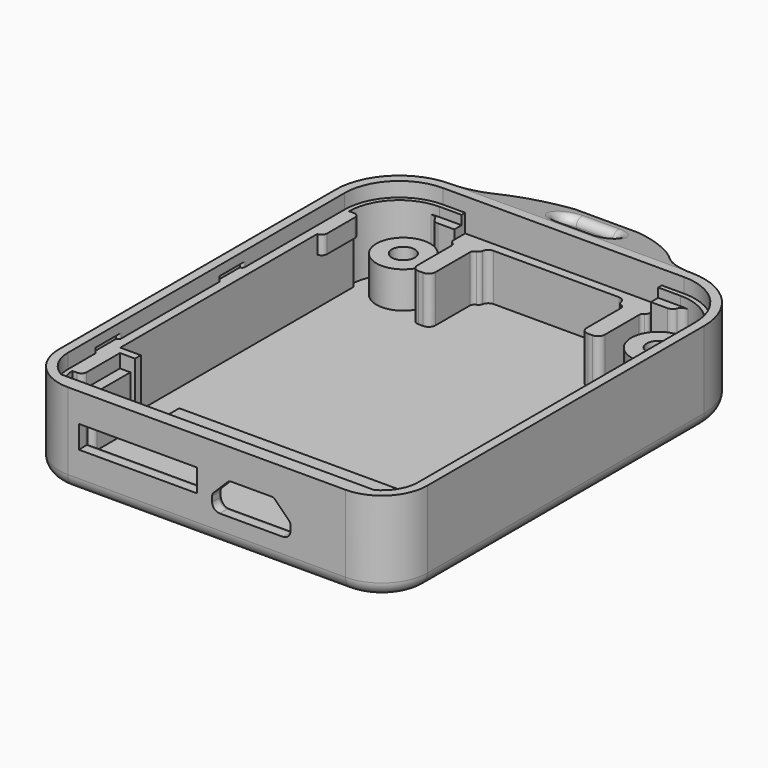
from build123d import *

# Parameters (mm, degrees)
PAD_DEPTH            = 9.95
POCKET_DEPTH         = 1.6
POCKET001_DEPTH      = 7.15
SKETCH003_W          = 21.6
SKETCH003_H          = 0.5
POCKET002_DEPTH      = 7.15
PAD001_DEPTH         = 5.15
SKETCH005_W          = 0.5
SKETCH005_H          = 38
PAD002_DEPTH         = 7.15
SKETCH006_W          = 2.45
SKETCH006_H          = 1
PAD003_DEPTH         = 6.15
SKETCH007_W          = 5
SKETCH007_H          = 7.15
PAD004_DEPTH         = 0.6
SKETCH008_W          = 5
SKETCH008_H          = 2
PAD005_DEPTH         = 0.6
SKETCH009_W          = 5.15
SKETCH009_H          = 5.66
PAD006_DEPTH         = 1.75
SKETCH010_W          = 5.15
SKETCH010_H          = 1.49
PAD007_DEPTH         = 0.6
SKETCH011_W          = 0.8
SKETCH011_H          = 7.15
PAD008_DEPTH         = 2.25
SKETCH012_W          = 4.54
SKETCH012_H          = 5.15
PAD009_DEPTH         = 1.75
SKETCH013_W          = 4.54
SKETCH013_H          = 2
PAD010_DEPTH         = 0.6
SKETCH014_W          = 30.5
SKETCH014_H          = 2
PAD011_DEPTH         = 3
SKETCH015_R          = 2.95
PAD012_DEPTH         = 4
SKETCH016_R          = 2.2
POCKET003_DEPTH      = 3.2
SKETCH017_R          = 1.25
POCKET004_DEPTH      = 2
SKETCH018_W          = 3
SKETCH018_H          = 0.55
POCKET005_DEPTH      = 0.3
SKETCH019_W          = 3
SKETCH019_H          = 0.55
POCKET006_DEPTH      = 0.3
SKETCH020_W          = 13
SKETCH020_H          = 2.5
POCKET007_DEPTH      = 1.5
POCKET008_DEPTH      = 1.5
FILLET_R             = 0.75
FILLET001_R          = 0.29
FILLET002_R          = 0.59
FILLET003_R          = 0.75
FILLET004_R          = 0.49
FILLET005_R          = 0.49
FILLET006_R          = 0.75
FILLET007_R          = 0.5
SKETCH022_W          = 26.5
SKETCH022_H          = 5
PAD013_DEPTH         = 3.5
PAD014_DEPTH         = 26.5
POCKET009_DEPTH      = 9.951
POCKET010_DEPTH      = 9.951
POCKET011_DEPTH      = 26.5
FILLET008_R          = 0.75
FILLET009_R          = 1
FILLET010_R          = 1.499
BODY_PLACEMENT_ANGLE = 90


with BuildPart() as part:
    # Sketch → Pad (new body)
    with BuildSketch(Plane.XZ):
        with BuildLine():
            Line((5, 0), (35.5, 0))
            ThreePointArc((35.5, 0), (39.035534, 1.464466), (40.5, 5))
            Line((40.5, 5), (40.5, 43))
            ThreePointArc((40.5, 43), (38.449747, 47.949747), (33.5, 50))
            Line((33.5, 50), (7, 50))
            ThreePointArc((7, 50), (2.050253, 47.949747), (0, 43))
            Line((0, 43), (0, 5))
            ThreePointArc((0, 5), (1.464466, 1.464466), (5, 0))
        make_face()
    extrude(amount=PAD_DEPTH)

    # Sketch001 (on Face10 of Pad) → Pocket (cut)
    with BuildSketch(Plane.XZ.offset(9.95)):
        with BuildLine():
            Line((7, 49), (33.5, 49))
            ThreePointArc((39.5, 43), (37.742641, 47.242641), (33.5, 49))
            Line((39.5, 43), (39.5, 5))
            ThreePointArc((37.436492, 1.5), (38.94572, 2.968494), (39.5, 5))
            Line((3.063508, 1.5), (37.436492, 1.5))
            ThreePointArc((1, 5), (1.55428, 2.968494), (3.063508, 1.5))
            Line((1, 5), (1, 43))
            ThreePointArc((7, 49), (2.757359, 47.242641), (1, 43))
        make_face()
    extrude(amount=-POCKET_DEPTH, mode=Mode.SUBTRACT)

    # Sketch002 (on Face19 of Pocket) → Pocket001 (cut)
    with BuildSketch(Plane.XZ.offset(8.35)):
        with BuildLine():
            Line((1.5, 43), (1.5, 5))
            ThreePointArc((1.5, 5), (2.525126, 2.525126), (5, 1.5))
            Line((5, 1.5), (35.5, 1.5))
            ThreePointArc((35.5, 1.5), (37.974874, 2.525126), (39, 5))
            Line((39, 43), (39, 5))
            ThreePointArc((39, 43), (37.389087, 46.889087), (33.5, 48.5))
            Line((7, 48.5), (33.5, 48.5))
            ThreePointArc((7, 48.5), (3.110913, 46.889087), (1.5, 43))
        make_face()
    extrude(amount=-POCKET001_DEPTH, mode=Mode.SUBTRACT)

    # Sketch003 (on Face19 of Pocket001) → Pocket002 (cut)
    with BuildSketch(Plane.XZ.offset(8.35)):
        with Locations((20.25, 48.75)):
            Rectangle(SKETCH003_W, SKETCH003_H)
    extrude(amount=-POCKET002_DEPTH, mode=Mode.SUBTRACT)

    # Sketch004 (on Face34 of Pocket002) → Pad001 (join)
    with BuildSketch(Plane.XZ.offset(1.2)):
        Polygon((9.45, 49), (9.45, 47), (9.95, 47), (9.95, 41.05), (11.95, 41.05), (11.95, 47), (12.63, 47), (12.63, 48), (27.870001, 48), (27.870001, 47), (28.55, 47), (28.55, 41.05), (30.55, 41.05), (30.55, 47), (31.05, 47), (31.05, 49), align=None)
    extrude(amount=PAD001_DEPTH)

    # Sketch005 (on Face29 of Pad001) → Pad002 (join)
    with BuildSketch(Plane.XZ.offset(1.2)):
        with Locations((1.75, 24)):
            Rectangle(SKETCH005_W, SKETCH005_H)
        with Locations((38.75, 24)):
            Rectangle(SKETCH005_W, SKETCH005_H)
    extrude(amount=PAD002_DEPTH)

    # Sketch006 (on Face29 of Pad002) → Pad003 (join)
    with BuildSketch(Plane.XZ.offset(1.2)):
        with Locations((8.225, 48)):
            Rectangle(SKETCH006_W, SKETCH006_H)
        with Locations((32.275, 48)):
            Rectangle(SKETCH006_W, SKETCH006_H)
    extrude(amount=PAD003_DEPTH)

    # Sketch007 (on Face61 of Pad003) → Pad004 (join)
    with BuildSketch(Plane(origin=(38.5, 0, 0), x_dir=(0, 0, -1), z_dir=(-1, 0, 0))):
        with Locations((-40.5, 4.775)):
            Rectangle(SKETCH007_W, SKETCH007_H)
    extrude(amount=PAD004_DEPTH)

    # Sketch008 (on Face37 of Pad004) → Pad005 (join)
    with BuildSketch(Plane(origin=(2, 0, 0), x_dir=(0, 0, 1), z_dir=(1, 0, 0))):
        with Locations((40.5, 7.35)):
            Rectangle(SKETCH008_W, SKETCH008_H)
    extrude(amount=PAD005_DEPTH)

    # Sketch009 (on Face38 of Pad005) → Pad006 (join)
    with BuildSketch(Plane(origin=(2, 0, 0), x_dir=(0, 0, 1), z_dir=(1, 0, 0))):
        with Locations((7.575, 4.03)):
            Rectangle(SKETCH009_W, SKETCH009_H)
    extrude(amount=PAD006_DEPTH)

    # Sketch010 (on Face38 of Pad006) → Pad007 (join)
    with BuildSketch(Plane(origin=(2, 0, 0), x_dir=(0, 0, 1), z_dir=(1, 0, 0))):
        with Locations((7.575, 7.605)):
            Rectangle(SKETCH010_W, SKETCH010_H)
    extrude(amount=PAD007_DEPTH)

    # Sketch011 (on Face38 of Pad007) → Pad008 (join)
    with BuildSketch(Plane(origin=(2, 0, 0), x_dir=(0, 0, 1), z_dir=(1, 0, 0))):
        with Locations((10.55, 4.775)):
            Rectangle(SKETCH011_W, SKETCH011_H)
    extrude(amount=PAD008_DEPTH)

    # Sketch012 (on Face67 of Pad008) → Pad009 (join)
    with BuildSketch(Plane(origin=(38.5, 0, 0), x_dir=(0, 0, -1), z_dir=(-1, 0, 0))):
        with Locations((-7.27, 3.775)):
            Rectangle(SKETCH012_W, SKETCH012_H)
    extrude(amount=PAD009_DEPTH)

    # Sketch013 (on Face67 of Pad009) → Pad010 (join)
    with BuildSketch(Plane(origin=(38.5, 0, 0), x_dir=(0, 0, -1), z_dir=(-1, 0, 0))):
        with Locations((-7.27, 7.35)):
            Rectangle(SKETCH013_W, SKETCH013_H)
    extrude(amount=PAD010_DEPTH)

    # Sketch014 (on Face29 of Pad010) → Pad011 (join)
    with BuildSketch(Plane.XZ.offset(1.2)):
        with Locations((23.25, 10.54)):
            Rectangle(SKETCH014_W, SKETCH014_H)
    extrude(amount=PAD011_DEPTH)

    # Sketch015 (on Face29 of Pad011) → Pad012 (join)
    with BuildSketch(Plane.XZ.offset(1.2)):
        with Locations((6.25, 44.5)):
            Circle(SKETCH015_R)
        with Locations((34.25, 44.5)):
            Circle(SKETCH015_R)
    extrude(amount=PAD012_DEPTH)

    # Sketch016 (on Face4 of Pad012) → Pocket003 (cut)
    with BuildSketch(Plane(origin=(0, 0, 0), x_dir=(1, 0, 0), z_dir=(0, 1, 0))):
        with Locations((34.277576, -44.424259)):
            Circle(SKETCH016_R)
        with Locations((6.25, -44.5)):
            Circle(SKETCH016_R)
    extrude(amount=-POCKET003_DEPTH, mode=Mode.SUBTRACT)

    # Sketch017 (on Face100 of Pocket003) → Pocket004 (cut)
    with BuildSketch(Plane.XZ.offset(5.2)):
        with Locations((6.25, 44.5)):
            Circle(SKETCH017_R)
        with Locations((34.25, 44.5)):
            Circle(SKETCH017_R)
    extrude(amount=-POCKET004_DEPTH, mode=Mode.SUBTRACT)

    # Sketch018 (on Face20 of Pocket004) → Pocket005 (cut)
    with BuildSketch(Plane(origin=(1, 0, 0), x_dir=(0, 0, 1), z_dir=(1, 0, 0))):
        with Locations((10.5, 8.625)):
            Rectangle(SKETCH018_W, SKETCH018_H)
        with Locations((27.5, 8.625)):
            Rectangle(SKETCH018_W, SKETCH018_H)
    extrude(amount=-POCKET005_DEPTH, mode=Mode.SUBTRACT)

    # Sketch019 (on Face16 of Pocket005) → Pocket006 (cut)
    with BuildSketch(Plane(origin=(39.5, 0, 0), x_dir=(0, 0, -1), z_dir=(-1, 0, 0))):
        with Locations((-10.5, 8.625)):
            Rectangle(SKETCH019_W, SKETCH019_H)
        with Locations((-27.5, 8.625)):
            Rectangle(SKETCH019_W, SKETCH019_H)
    extrude(amount=-POCKET006_DEPTH, mode=Mode.SUBTRACT)

    # Sketch020 (on Face1 of Pocket006) → Pocket007 (cut)
    with BuildSketch(Plane(origin=(0, 0, 0), x_dir=(1, 0, 0), z_dir=(0, 0, -1))):
        with Locations((12.7, 5.55)):
            Rectangle(SKETCH020_W, SKETCH020_H)
    extrude(amount=-POCKET007_DEPTH, mode=Mode.SUBTRACT)

    # Sketch021 (on Face1 of Pocket007) → Pocket008 (cut)
    with BuildSketch(Plane(origin=(0, 0, 0), x_dir=(1, 0, 0), z_dir=(0, 0, -1))):
        with BuildLine():
            Line((22.934456, 6.65), (27.365544, 6.65))
            ThreePointArc((27.754453, 6.488909), (27.57602, 6.608134), (27.365544, 6.65))
            Line((29.288909, 4.954453), (27.754453, 6.488909))
            ThreePointArc((29.45, 4.565544), (29.408134, 4.77602), (29.288909, 4.954453))
            Line((29.45, 4.565544), (29.45, 3.995544))
            ThreePointArc((28.62, 3.165544), (29.206899, 3.408646), (29.45, 3.995544))
            Line((28.62, 3.165544), (21.68, 3.165544))
            ThreePointArc((20.85, 3.995544), (21.093101, 3.408646), (21.68, 3.165544))
            Line((20.85, 3.995544), (20.85, 4.565544))
            ThreePointArc((21.011091, 4.954453), (20.891866, 4.77602), (20.85, 4.565544))
            Line((21.011091, 4.954453), (22.545547, 6.488909))
            ThreePointArc((22.934456, 6.65), (22.72398, 6.608134), (22.545547, 6.488909))
        make_face()
    extrude(amount=-POCKET008_DEPTH, mode=Mode.SUBTRACT)

    # Fillet
    fillet_edges = [part.edges().sort_by_distance(p)[0] for p in [
        (11.95, -3.775, 41.05),
        (9.95, -3.775, 41.05),
        (28.55, -3.775, 41.05),
        (30.55, -3.775, 41.05),
    ]]
    fillet(fillet_edges, radius=FILLET_R)

    # Fillet001
    fillet001_edges = [part.edges().sort_by_distance(p)[0] for p in [
        (1, -8.625, 26),
        (1, -8.625, 29),
        (1, -8.625, 9),
        (1, -8.625, 12),
        (39.5, -8.625, 29),
        (39.5, -8.625, 26),
        (39.5, -8.625, 12),
        (39.5, -8.625, 9),
    ]]
    fillet(fillet001_edges, radius=FILLET001_R)

    # Fillet002
    fillet002_edges = [part.edges().sort_by_distance(p)[0] for p in [
        (2.6, -7.605, 5),
        (3.75, -4.03, 5),
        (37.9, -7.35, 5),
        (37.9, -7.35, 9.54),
        (36.75, -3.775, 5),
        (36.75, -5.275, 9.54),
        (37.9, -4.775, 38),
        (37.9, -4.775, 43),
        (2.6, -7.35, 38),
        (2.6, -7.35, 43),
    ]]
    fillet(fillet002_edges, radius=FILLET002_R)

    # Fillet003
    fillet003_edges = [part.edges().sort_by_distance(p)[0] for p in [
        (33.5, -4.275, 48.5),
        (7, -4.275, 48.5),
        (27.870001, -3.775, 48),
        (12.63, -3.775, 48),
    ]]
    fillet(fillet003_edges, radius=FILLET003_R)

    # Fillet004
    fillet004_edges = [part.edges().sort_by_distance(p)[0] for p in [
        (30.55, -3.775, 47),
        (9.95, -3.775, 47),
        (28.55, -3.775, 47),
        (11.95, -3.775, 47),
    ]]
    fillet(fillet004_edges, radius=FILLET004_R)

    # Fillet005
    fillet005_edges = [part.edges().sort_by_distance(p)[0] for p in [
        (31.05, -3.775, 47),
        (9.45, -3.775, 47),
        (12.63, -3.775, 47),
        (27.870001, -3.775, 47),
    ]]
    fillet(fillet005_edges, radius=FILLET005_R)

    # Fillet006
    fillet006_edges = [part.edges().sort_by_distance(p)[0] for p in [
        (33.5, -4.275, 47.5),
        (7, -4.275, 47.5),
    ]]
    fillet(fillet006_edges, radius=FILLET006_R)

    # Fillet007
    fillet007_edges = [part.edges().sort_by_distance(p)[0] for p in [
        (12.7, -4.3, 1.5),
        (19.2, -5.55, 1.5),
        (12.7, -6.8, 1.5),
        (6.2, -5.55, 1.5),
        (25.15, -3.165544, 1.5),
        (29.206899, -3.408646, 1.5),
        (29.45, -4.280544, 1.5),
        (29.408134, -4.77602, 1.5),
        (28.521681, -5.721681, 1.5),
        (27.57602, -6.608134, 1.5),
        (25.15, -6.65, 1.5),
        (22.72398, -6.608134, 1.5),
        (21.778319, -5.721681, 1.5),
        (20.891866, -4.77602, 1.5),
        (20.85, -4.280544, 1.5),
        (21.093101, -3.408646, 1.5),
    ]]
    fillet(fillet007_edges, radius=FILLET007_R)

    # Sketch022 (on Face31 of Fillet007) → Pad013 (join)
    with BuildSketch(Plane.XZ.offset(9.95)):
        with Locations((20.25, 52.5)):
            Rectangle(SKETCH022_W, SKETCH022_H)
    extrude(amount=-PAD013_DEPTH)

    # Sketch023 (on Face174 of Pad013) → Pad014 (join)
    with BuildSketch(Plane(origin=(7, 0, 0), x_dir=(0, 0, -1), z_dir=(-1, 0, 0))):
        Polygon((-55, 6.45), (-50, 6.45), (-50, 1.5), align=None)
    extrude(amount=-PAD014_DEPTH)

    # Sketch024 (on Face122 of Pad014) → Pocket009 (cut, through all)
    with BuildSketch(Plane.XZ.offset(9.95)):
        with BuildLine():
            ThreePointArc((18.25, 53.25), (17, 52), (18.25, 50.75))
            Line((18.25, 50.75), (22.25, 50.75))
            ThreePointArc((22.25, 50.75), (23.5, 52), (22.25, 53.25))
            Line((18.25, 53.25), (22.25, 53.25))
        make_face()
    extrude(amount=-POCKET009_DEPTH, mode=Mode.SUBTRACT)

    # Sketch025 (on Face122 of Pocket009) → Pocket010 (cut, through all)
    with BuildSketch(Plane.XZ.offset(9.95)):
        with BuildLine():
            ThreePointArc((7, 50), (9.02016, 50.426285), (10.695858, 51.632438))
            ThreePointArc((16.75, 55), (13.474629, 53.762608), (10.695858, 51.632438))
            Line((16.75, 55), (7, 55))
            Line((7, 55), (7, 50))
        make_face()
        with BuildLine():
            ThreePointArc((29.996778, 51.432464), (31.607614, 50.371954), (33.5, 50))
            Line((33.5, 55), (33.5, 50))
            Line((23.75, 55), (33.5, 55))
            ThreePointArc((29.996778, 51.432464), (27.147011, 53.695346), (23.75, 55))
        make_face()
    extrude(amount=-POCKET010_DEPTH, mode=Mode.SUBTRACT)

    # Sketch026 (on Face175 of Pocket009) → Pocket011 (cut)
    with BuildSketch(Plane(origin=(7, 0, 0), x_dir=(0, 0, -1), z_dir=(-1, 0, 0))):
        Polygon((-50, 9.95), (-55, 9.95), (-55, 8.610254), align=None)
    extrude(amount=-POCKET011_DEPTH, mode=Mode.SUBTRACT)

    # Fillet008
    fillet008_edges = [part.edges().sort_by_distance(p)[0] for p in [
        (20.25, -9.079165, 53.25),
        (23.5, -9.414102, 52),
        (20.25, -9.749038, 50.75),
        (17, -9.414102, 52),
    ]]
    fillet(fillet008_edges, radius=FILLET008_R)

    # Fillet009
    fillet009_edges = [part.edges().sort_by_distance(p)[0] for p in [
        (20.25, -4.7175, 53.25),
        (17, -3.48, 52),
        (20.25, -2.2425, 50.75),
        (23.5, -3.48, 52),
    ]]
    fillet(fillet009_edges, radius=FILLET009_R)

    # Fillet010
    fillet010_edges = [part.edges().sort_by_distance(p)[0] for p in [
        (40.5, 0, 24),
        (39.035534, 0, 1.464466),
        (20.25, 0, 0),
        (1.464466, 0, 1.464466),
        (0, 0, 24),
        (2.050253, 0, 47.949747),
        (20.25, 0, 50),
        (38.449747, 0, 47.949747),
    ]]
    fillet(fillet010_edges, radius=FILLET010_R)


with BuildPart() as part_1:
    # Body placement: moved
    add(part.part.rotate(Axis((0, 0, 0), (-1, 0, 0)), BODY_PLACEMENT_ANGLE))


solid = part_1.part
